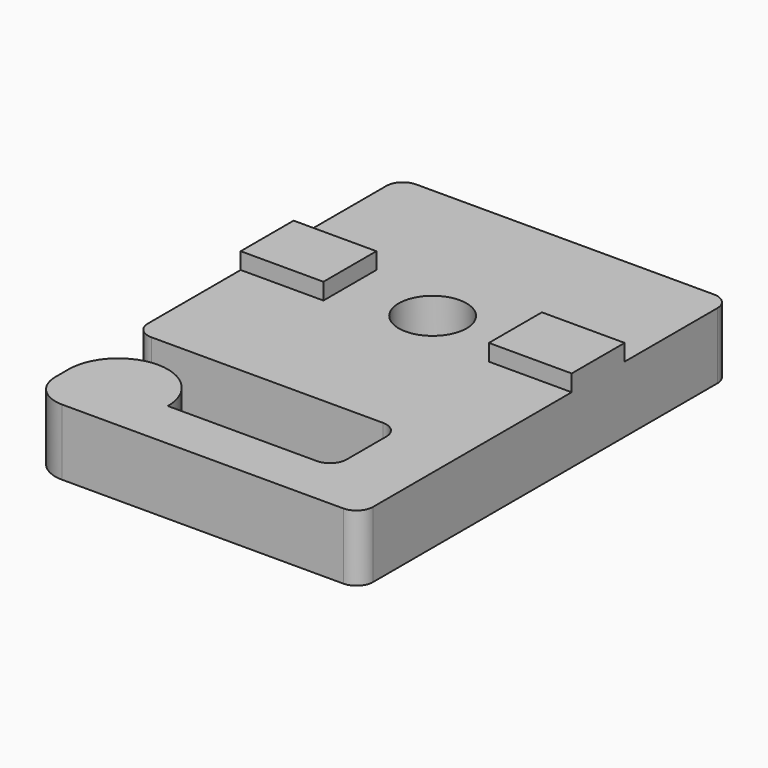
from build123d import *

# Parameters (mm, degrees)
CYLINDER007_R     = 2.05
CYLINDER007_DEPTH = 10
BOX013_W          = 5
BOX013_H          = 4
BOX013_DEPTH      = 5
BOX014_W          = 5
BOX014_H          = 4
BOX014_DEPTH      = 5
BOX012_W          = 4
BOX012_H          = 8
BOX012_DEPTH      = 4
CYLINDER006_R     = 3
CYLINDER006_DEPTH = 4
BOX011_W          = 20
BOX011_H          = 3
BOX011_DEPTH      = 4
BOX010_W          = 20
BOX010_H          = 20
BOX010_DEPTH      = 4
FILLET001002_R    = 1
FILLET001003_R    = 2


with BuildPart() as cylinder007:
    # Cylinder007 → Cylinder007 (new body)
    with BuildSketch(Plane.XY):
        Circle(CYLINDER007_R)
    extrude(amount=CYLINDER007_DEPTH)


with BuildPart() as cube013:
    # Box013 → Box013 (new body)
    with BuildSketch(Plane(origin=(-10, -2, 0), x_dir=(1, 0, 0), z_dir=(0, 0, 1))):
        with Locations((2.5, 2)):
            Rectangle(BOX013_W, BOX013_H)
    extrude(amount=BOX013_DEPTH)


with BuildPart() as cube014:
    # Box014 → Box014 (new body)
    with BuildSketch(Plane(origin=(5, -2, 0), x_dir=(1, 0, 0), z_dir=(0, 0, 1))):
        with Locations((2.5, 2)):
            Rectangle(BOX014_W, BOX014_H)
    extrude(amount=BOX014_DEPTH)


with BuildPart() as cube012:
    # Box012 → Box012 (new body)
    with BuildSketch(Plane(origin=(6, -18, 0), x_dir=(1, 0, 0), z_dir=(0, 0, 1))):
        with Locations((2, 4)):
            Rectangle(BOX012_W, BOX012_H)
    extrude(amount=BOX012_DEPTH)


with BuildPart() as cylinder006:
    # Cylinder006 → Cylinder006 (new body)
    with BuildSketch(Plane(origin=(-7, -15, 0), x_dir=(1, 0, 0), z_dir=(0, 0, 1))):
        Circle(CYLINDER006_R)
    extrude(amount=CYLINDER006_DEPTH)


with BuildPart() as cube011:
    # Box011 → Box011 (new body)
    with BuildSketch(Plane(origin=(-10, -18, 0), x_dir=(1, 0, 0), z_dir=(0, 0, 1))):
        with Locations((10, 1.5)):
            Rectangle(BOX011_W, BOX011_H)
    extrude(amount=BOX011_DEPTH)


with BuildPart() as cut001002:
    # Box010 → Box010 (new body)
    with BuildSketch(Plane(origin=(-10, -10, 0), x_dir=(1, 0, 0), z_dir=(0, 0, 1))):
        with Locations((10, 10)):
            Rectangle(BOX010_W, BOX010_H)
    extrude(amount=BOX010_DEPTH)

    # Fusion002: union Cube013, Cube014, Cube012, Cylinder006, Cube011
    add(cube013.part)
    add(cube014.part)
    add(cube012.part)
    add(cylinder006.part)
    add(cube011.part)

    # Fillet001002
    fillet001002_edges = [cut001002.edges().sort_by_distance(p)[0] for p in [
        (-10, -10, 2),
        (6, -10, 2),
        (-10, 10, 2),
        (10, 10, 2),
        (6, -15, 2),
        (10, -18, 2),
    ]]
    fillet(fillet001002_edges, radius=FILLET001002_R)

    # Fillet001003
    fillet001003_edges = [cut001002.edges().sort_by_distance(p)[0] for p in [
        (-10, -18, 2),
    ]]
    fillet(fillet001003_edges, radius=FILLET001003_R)

    # Cut001002: cut Cylinder007
    add(cylinder007.part, mode=Mode.SUBTRACT)


solid = cut001002.part
